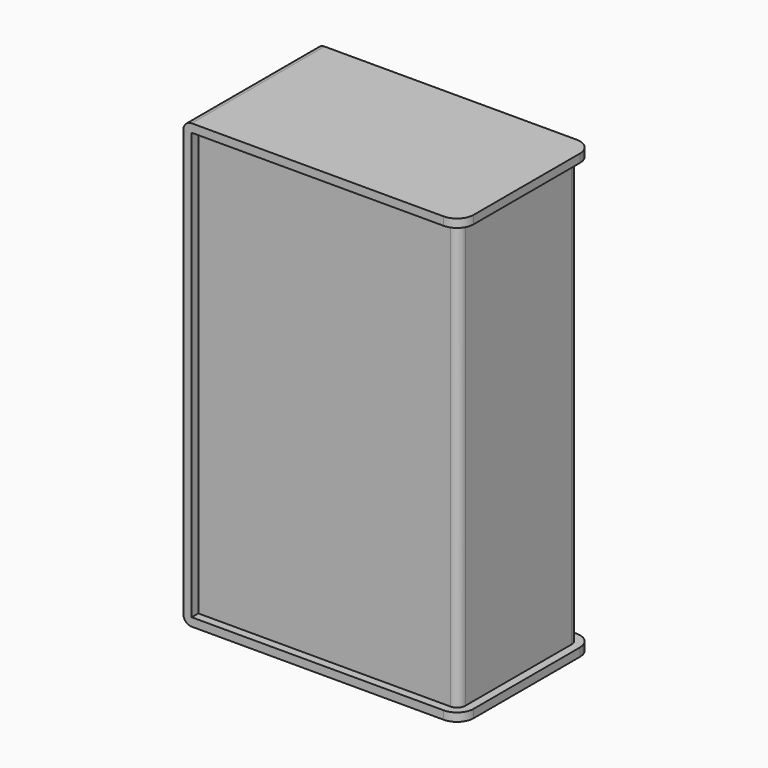
from build123d import *

# Parameters (mm, degrees)
F1_DEPTH = 30
F3_DEPTH = 154
F4_R     = 3
F4_2_R   = 3
F5_R     = 6


with BuildPart() as f1:
    # F0 (on Front) → F1 (new body, symmetric)
    with BuildSketch(Plane.XZ):
        Polygon((-100, 0), (0, 0), (0, 3), (-97, 3), (-97, 157), (0, 157), (0, 160), (-100, 160), align=None)
    extrude(amount=F1_DEPTH, both=True)

    # F4
    f4_edges = [f1.edges().sort_by_distance(p)[0] for p in [
        (-100, 0, 160),
        (-100, 0, 0),
    ]]
    fillet(f4_edges, radius=F4_R)

    # F5
    f5_edges = [f1.edges().sort_by_distance(p)[0] for p in [
        (0, -30, 158.5),
        (0, 30, 158.5),
        (0, 30, 1.5),
        (0, -30, 1.5),
    ]]
    fillet(f5_edges, radius=F5_R)


with BuildPart() as f3:
    # F2 (on face) → F3 (new body, through all)
    with BuildSketch(Plane.XY.offset(3)):
        Polygon((-97, -24), (-97, -27), (-3, -27), (-3, 27), (-97, 27), (-97, 24), (-6, 24), (-6, -24), align=None)
    extrude(amount=F3_DEPTH)

    # F4#2
    f4_2_edges = [f3.edges().sort_by_distance(p)[0] for p in [
        (-3, -27, 80),
        (-3, 27, 80),
    ]]
    fillet(f4_2_edges, radius=F4_2_R)


solid = Compound([f1.part, f3.part])
